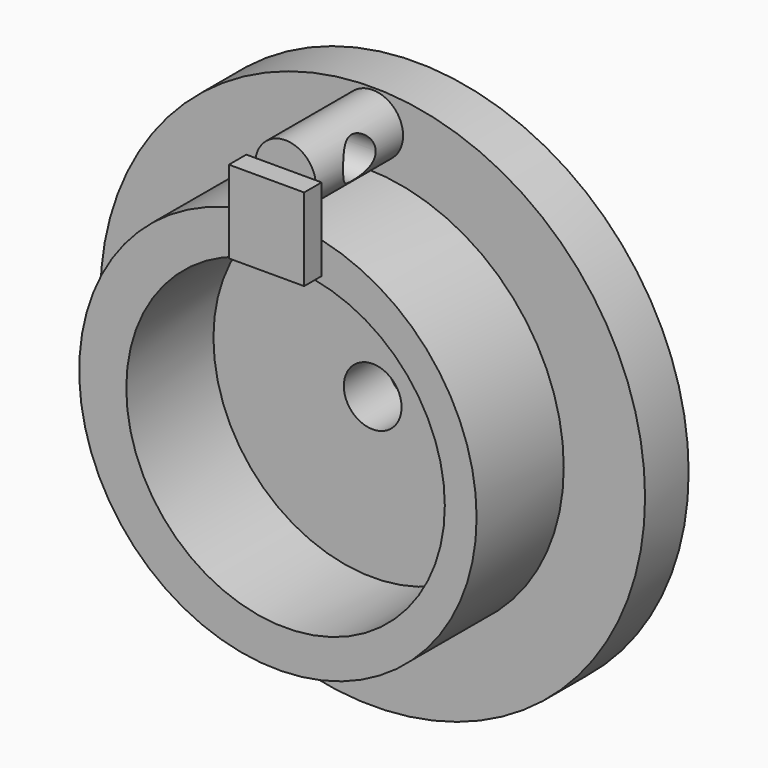
from build123d import *

# Parameters (mm, degrees)
F0_R      = 25
F1_DEPTH  = 5
F2_R      = 2.65
F3_DEPTH  = 5
F5_R      = 18.238073
F6_DEPTH  = 10
F7_R      = 14.619557
F8_DEPTH  = 10
F9_R      = 2.787227
F10_DEPTH = 10
F12_DEPTH = 2
F13_R     = 1.869592
F14_DEPTH = 25.4


with BuildPart() as f1:
    # F0 (on Front) → F1 (new body)
    with BuildSketch(Plane.XZ):
        Circle(F0_R)
    extrude(amount=F1_DEPTH)

    # F2 (on face) → F3 (cut)
    with BuildSketch(Plane(origin=(0, 0, 0), x_dir=(-1, 0, 0), z_dir=(0, 1, 0))):
        Circle(F2_R)
    extrude(amount=-F3_DEPTH, mode=Mode.SUBTRACT)

    # F5 (on face) → F6 (join)
    with BuildSketch(Plane.XZ.offset(5)):
        with Locations((-0.701384, 0)):
            Circle(F5_R)
    extrude(amount=F6_DEPTH)

    # F7 (on face) → F8 (cut)
    with BuildSketch(Plane.XZ.offset(15)):
        Circle(F7_R)
    extrude(amount=-F8_DEPTH, mode=Mode.SUBTRACT)

    # F9 (on face) → F10 (join)
    with BuildSketch(Plane.XZ.offset(5)):
        with Locations((0, 21.991307)):
            Circle(F9_R)
    extrude(amount=F10_DEPTH)

    # F11 (on face) → F12 (join)
    with BuildSketch(Plane.XZ.offset(15)):
        with BuildLine():
            Line((-2.749703, 22.447126), (-3.600255, 22.447126))
            Line((-3.600255, 22.447126), (-3.600255, 14.876149))
            Line((-3.600255, 14.876149), (3.30658, 14.876149))
            Line((3.30658, 14.876149), (3.30658, 22.447126))
            Line((3.30658, 22.447126), (2.749703, 22.447126))
            ThreePointArc((2.749703, 22.447126), (2.77783, 22.219987), (2.787227, 21.991307))
            ThreePointArc((2.787227, 21.991307), (-0.228681, 19.213476), (-2.749703, 22.447126))
        make_face()
        with BuildLine():
            Line((2.749703, 22.447126), (-2.749703, 22.447126))
            ThreePointArc((-2.749703, 22.447126), (-0.228681, 19.213476), (2.787227, 21.991307))
            ThreePointArc((2.787227, 21.991307), (2.77783, 22.219987), (2.749703, 22.447126))
        make_face()
    extrude(amount=F12_DEPTH)

    # F13 (on face) → F14 (cut)
    with BuildSketch(Plane.YZ.offset(3.30658)):
        with Locations((-10.008663, 22.004483)):
            Circle(F13_R)
    extrude(amount=-F14_DEPTH, mode=Mode.SUBTRACT)


solid = f1.part
